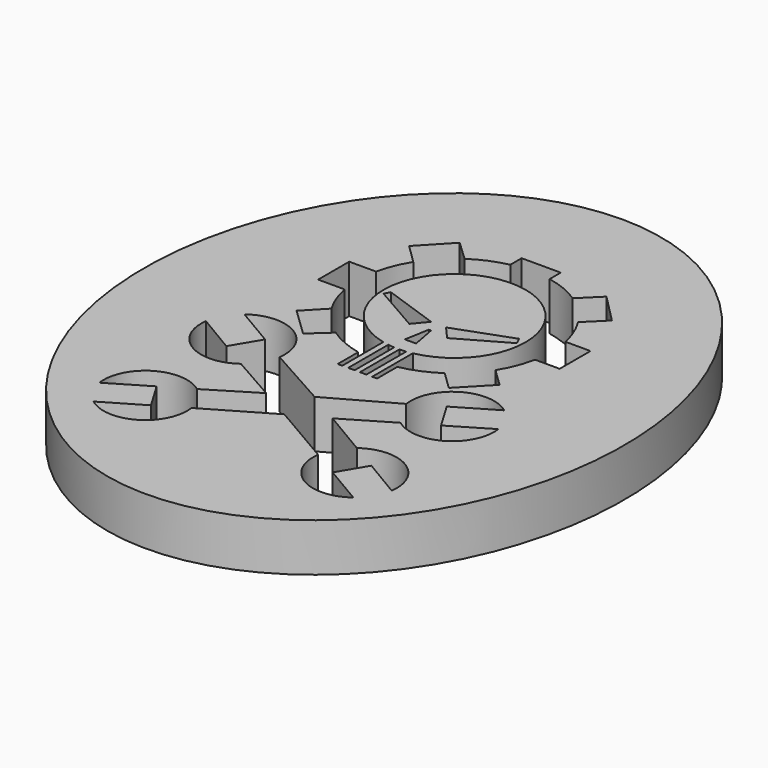
from build123d import *

# Parameters (mm, degrees)
F1_DEPTH = 25
F3_DEPTH = 25


with BuildPart() as f1:
    # F0 (on Top) → F1 (new body)
    with BuildSketch(Plane.XY):
        with BuildLine():
            Line((-10.520078, 102.707777), (-10.520078, 95.325791))
            ThreePointArc((-10.520078, 95.325791), (-19.769707, 92.405506), (-28.290489, 87.770855))
            Line((-28.290489, 87.770855), (-38.69927, 97.605922))
            Line((-38.69927, 97.605922), (-52.963644, 82.509458))
            Line((-52.963644, 82.509458), (-42.885612, 72.617343))
            ThreePointArc((-42.885612, 72.617343), (-46.836283, 64.84771), (-49.392199, 56.514505))
            Line((-49.392199, 56.514505), (-63.372591, 56.514505))
            Line((-63.372591, 56.514505), (-63.372591, 36.276363))
            Line((-63.372591, 36.276363), (-49.583915, 36.276363))
            ThreePointArc((-49.583915, 36.276363), (-47.11817, 27.718908), (-43.187682, 19.727588))
            Line((-43.187682, 19.727588), (-53.092445, 9.401344))
            Line((-53.092445, 9.401344), (-38.444798, -4.648437))
            Line((-38.444798, -4.648437), (-28.601885, 4.294753))
            ThreePointArc((-28.601885, 4.294753), (-20.036487, -0.43773), (-10.719222, -3.429549))
            Line((-10.719222, -3.429549), (-10.719222, -16.784427))
            Line((-10.719222, -16.784427), (-8.327998, -16.784427))
            Line((-8.327998, -16.784427), (-8.327998, 9.88911))
            ThreePointArc((-8.327998, 9.88911), (0.565807, 82.905627), (7.221675, 9.651201))
            Line((7.221675, 9.651201), (7.221675, -16.784427))
            Line((7.221675, -16.784427), (9.781904, -16.784427))
            Line((9.781904, -16.784427), (9.781904, -3.619839))
            ThreePointArc((9.781904, -3.619839), (19.420394, -0.690973), (28.285876, 4.092535))
            Line((28.285876, 4.092535), (37.715084, -4.995332))
            Line((37.715084, -4.995332), (52.158375, 9.990448))
            Line((52.158375, 9.990448), (42.753151, 19.055199))
            ThreePointArc((42.753151, 19.055199), (46.960354, 27.36454), (49.570197, 36.305144))
            Line((49.570197, 36.305144), (62.411876, 36.305144))
            Line((62.411876, 36.305144), (62.411876, 56.354027))
            Line((62.411876, 56.354027), (49.407021, 56.354027))
            ThreePointArc((49.407021, 56.354027), (46.746771, 65.020524), (42.580021, 73.071817))
            Line((42.580021, 73.071817), (52.419129, 82.787107))
            Line((52.419129, 82.787107), (37.553553, 97.84214))
            Line((37.553553, 97.84214), (27.723524, 88.135816))
            ThreePointArc((27.723524, 88.135816), (19.140592, 92.66006), (9.850916, 95.459601))
            Line((9.850916, 95.459601), (9.850916, 102.707777))
            Line((9.850916, 102.707777), (-10.520078, 102.707777))
        make_face()
        Polygon((-33.386216, 46.136752), (-34.911826, 43.255046), (-10.078296, 29.016025), (-4.230127, 35.966024), align=None)
        Polygon((33.062547, 46.645287), (3.567433, 35.881266), (9.754626, 28.846512), (34.75767, 43.085534), align=None)
        Polygon((-0.657899, 30.022398), (-2.937364, 17.209621), (2.91467, 17.209621), (0.498379, 30.022398), align=None)
        with BuildLine():
            ThreePointArc((4.202167, 9.1788), (2.520062, 9.02526), (0.832701, 8.94868))
            Line((0.832701, 8.94868), (0.832701, -16.784427))
            Line((0.832701, -16.784427), (4.202167, -16.784427))
            Line((4.202167, -16.784427), (4.202167, 9.1788))
        make_face()
        with BuildLine():
            ThreePointArc((-1.928486, 8.989617), (-3.601774, 9.1151), (-5.267648, 9.316351))
            Line((-5.267648, 9.316351), (-5.267648, -16.784427))
            Line((-5.267648, -16.784427), (-1.928483, -16.784427))
            Line((-1.928483, -16.784427), (-1.928486, 8.989617))
        make_face()
        with BuildLine():
            ThreePointArc((67.672361, -6.328479), (43.470257, -4.958359), (32.962173, -26.803249))
            Line((32.962173, -26.803249), (0, -45.236867))
            Line((0, -45.236867), (-32.962173, -26.803249))
            ThreePointArc((-32.962173, -26.803249), (-43.470257, -4.958359), (-67.672361, -6.328479))
            Line((-67.672361, -6.328479), (-47.304317, -18.337514))
            Line((-47.304317, -18.337514), (-55.920366, -32.808058))
            Line((-55.920366, -32.808058), (-76.145326, -20.765716))
            ThreePointArc((-76.145326, -20.765716), (-65.658366, -42.494104), (-41.563703, -41.250571))
            Line((-41.563703, -41.250571), (-17.399794, -54.987583))
            Line((-17.399794, -54.987583), (-41.563703, -69.717638))
            ThreePointArc((-41.563703, -69.717638), (-65.658366, -68.474105), (-76.145326, -90.202493))
            Line((-76.145326, -90.202493), (-55.920366, -78.160151))
            Line((-55.920366, -78.160151), (-47.304317, -92.630694))
            Line((-47.304317, -92.630694), (-67.672361, -104.639729))
            ThreePointArc((-67.672361, -104.639729), (-43.470257, -106.00985), (-32.962173, -84.164959))
            Line((-32.962173, -84.164959), (0, -64.919427))
            Line((0, -64.919427), (32.962173, -84.164959))
            ThreePointArc((32.962173, -84.164959), (43.470257, -106.00985), (67.672361, -104.639729))
            Line((67.672361, -104.639729), (47.304317, -92.630694))
            Line((47.304317, -92.630694), (55.920366, -78.160151))
            Line((55.920366, -78.160151), (76.145326, -90.202493))
            ThreePointArc((76.145326, -90.202493), (65.658366, -68.474105), (41.563703, -69.717638))
            Line((41.563703, -69.717638), (17.565297, -55.484104))
            Line((17.565297, -55.484104), (41.563703, -41.250571))
            ThreePointArc((41.563703, -41.250571), (65.658366, -42.494104), (76.145326, -20.765716))
            Line((76.145326, -20.765716), (55.920366, -32.808058))
            Line((55.920366, -32.808058), (47.304317, -18.337514))
            Line((47.304317, -18.337514), (67.672361, -6.328479))
        make_face()
    extrude(amount=F1_DEPTH)


with BuildPart() as f3:
    # F2 (on Top) → F3 (new body)
    with BuildSketch(Plane.XY):
        with BuildLine():
            add(Edge.make_bspline(
                [(0, 155), (-216.506351, 155), (-108.253175, -77.5), (0, -310), (108.253175, -77.5), (216.506351, 155), (0, 155)],
                knots=[0, 0, 0, 2.094395, 2.094395, 4.18879, 4.18879, 6.283185, 6.283185, 6.283185], degree=2, weights=[1, 0.5, 1, 0.5, 1, 0.5, 1]))
        make_face()
    extrude(amount=F3_DEPTH)

    # F4: cut F1
    add(f1.part, mode=Mode.SUBTRACT)


solid = f3.part
